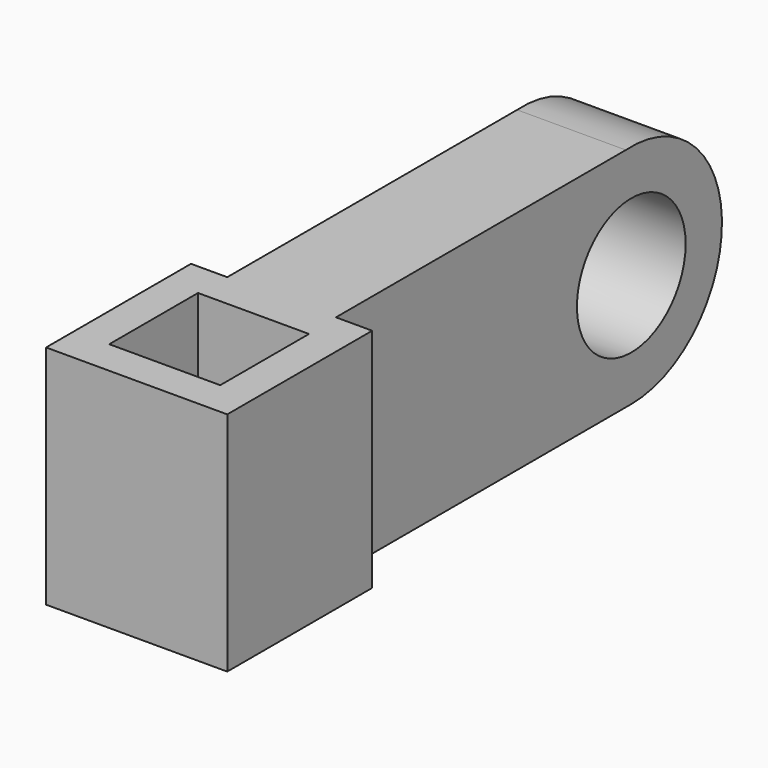
from build123d import *

# Parameters (mm, degrees)
SKETCH018_R             = 1.5
PAD012_DEPTH            = 2.4
BOX008_W                = 4
BOX008_H                = 5
BOX008_DEPTH            = 4
SKETCH019_W             = 2.45
SKETCH019_H             = 2.45
POCKET009_DEPTH         = 5.001
BODY005_PLACEMENT_ANGLE = 90


with BuildPart() as part:
    # Sketch018 → Pad012 (new body)
    with BuildSketch(Plane.XZ):
        with BuildLine():
            Line((-6, 5), (6, 5))
            ThreePointArc((6.150876, 0), (8.652014, 2.577748), (6, 5))
            Line((6.150876, 0), (-6, 0))
            Line((-6, 0), (-6, 5))
        make_face()
        with Locations((6.150876, 2.502276)):
            Circle(SKETCH018_R, mode=Mode.SUBTRACT)
    extrude(amount=PAD012_DEPTH)

    # Box008 → Box008 (join)
    with BuildSketch(Plane(origin=(-6, 0.8, 0), x_dir=(1, 0, 0), z_dir=(0, -1, 0))):
        with Locations((2, 2.5)):
            Rectangle(BOX008_W, BOX008_H)
    extrude(amount=BOX008_DEPTH)

    # Sketch019 (on Face13 of Box008) → Pocket009 (cut, through all)
    with BuildSketch(Plane(origin=(-6, 0.8, 5), x_dir=(-1, 0, 0), z_dir=(0, 0, 1))):
        with Locations((-2, 2)):
            Rectangle(SKETCH019_W, SKETCH019_H)
    extrude(amount=-POCKET009_DEPTH, mode=Mode.SUBTRACT)


with BuildPart() as part_1:
    # Body005 placement: moved
    add(part.part.moved(Location((40.3, -35.2, -10.6))).rotate(Axis((40.3, -35.2, -10.6), (0, 0, 1)), BODY005_PLACEMENT_ANGLE))


solid = part_1.part
